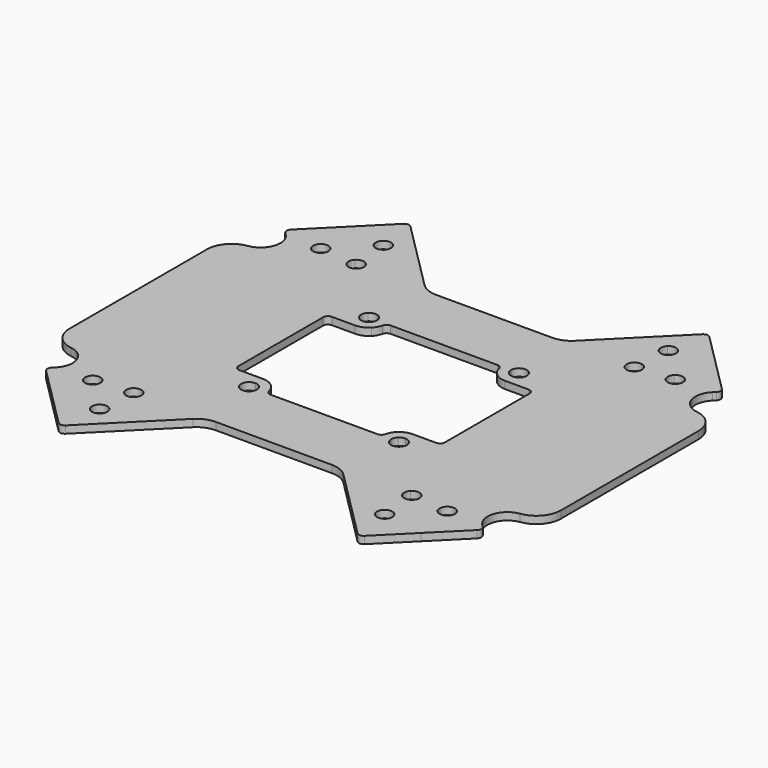
from build123d import *

# Parameters (mm, degrees)
F0_R     = 1.55
F1_DEPTH = 1.5


with BuildPart() as f1:
    # F0 (on Top) → F1 (new body)
    with BuildSketch(Plane.XY):
        with BuildLine():
            Line((-19.0474562542, -26.5065397223), (-20.5119223638, -27.9710058318))
            Line((-20.5119223638, -27.9710058318), (-20.5119223638, -30.0420736437))
            ThreePointArc((-20.5119223638, -30.0420736437), (-20.1313200221, -28.1286564717), (-19.0474562542, -26.5065397223))
        make_face()
        with BuildLine():
            Line((-60.2987189282, -69.8288702081), (-62.36978674, -69.8288702081))
            Line((-62.36978674, -69.8288702081), (-63.8342528299, -71.293336298))
            ThreePointArc((-63.8342528299, -71.293336298), (-62.2121360872, -70.2094725444), (-60.2987189282, -69.8288702081))
        make_face()
        Polygon((-69.5119223638, -34.9710058318), (-76.5119223638, -27.9710058318), (-76.5119223638, -30.0420736437), (-76.5119223638, -53.6156667725), (-76.5119223638, -55.6867345844), (-69.5119223638, -48.6867345844), align=None)
        with BuildLine():
            Line((-76.5119223638, -27.9710058318), (-77.9763884163, -26.5065397793))
            ThreePointArc((-77.9763884163, -26.5065397793), (-76.89252469, -28.128656509), (-76.5119223638, -30.0420736437))
            Line((-76.5119223638, -30.0420736437), (-76.5119223638, -27.9710058318))
        make_face()
        Polygon((-27.5119223638, -34.9710058318), (-27.5119223638, -48.6867345844), (-20.5119223638, -55.6867345844), (-20.5119223638, -53.6156667725), (-20.5119223638, -30.0420736437), (-20.5119223638, -27.9710058318), align=None)
        with BuildLine():
            Line((-20.5119223638, -53.6156667725), (-20.5119223638, -55.6867345844))
            Line((-20.5119223638, -55.6867345844), (-19.0474562542, -57.151200694))
            ThreePointArc((-19.0474562542, -57.151200694), (-20.1313200221, -55.5290839445), (-20.5119223638, -53.6156667725))
        make_face()
        Polygon((-60.2987189282, -13.8288702081), (-62.36978674, -13.8288702081), (-49.61978674, -26.5788702081), (-47.4040579875, -26.5788702081), (-34.6540579875, -13.8288702081), (-36.7251257993, -13.8288702081), align=None)
        Polygon((-34.6540579875, -69.8288702081), (-47.4040579875, -57.0788702081), (-49.61978674, -57.0788702081), (-62.36978674, -69.8288702081), (-60.2987189282, -69.8288702081), (-36.7251257993, -69.8288702081), align=None)
        with BuildLine():
            Line((-33.1895918563, -71.2933363393), (-34.6540579875, -69.8288702081))
            Line((-34.6540579875, -69.8288702081), (-36.7251257993, -69.8288702081))
            ThreePointArc((-36.7251257993, -69.8288702081), (-34.8117086133, -70.2094725556), (-33.1895918563, -71.2933363393))
        make_face()
        with BuildLine():
            Line((-77.8922091221, -12.4485834498), (-81.0388342983, -9.3019582735))
            Line((-81.0388342983, -9.3019582735), (-83.4783526934, -11.7414766686))
            ThreePointArc((-83.4783526934, -11.7414766686), (-83.1423549289, -12.2443328593), (-83.0243682043, -12.8374921795))
            ThreePointArc((-83.0243682043, -12.8374921795), (-83.9812088841, -14.2695054549), (-85.6703837151, -13.9335076903))
            Line((-85.6703837151, -13.9335076903), (-88.1099021102, -16.3730260854))
            Line((-88.1099021102, -16.3730260854), (-85.1540579875, -19.3288702081))
            Line((-85.1540579875, -19.3288702081), (-80.3317275171, -24.1512006785))
            Line((-80.3317275171, -24.1512006785), (-73.2606597053, -17.0801328666))
            Line((-73.2606597053, -17.0801328666), (-75.7001781004, -14.6406144715))
            ThreePointArc((-75.7001781004, -14.6406144715), (-77.8922091221, -14.6406144715), (-77.8922091221, -12.4485834498))
        make_face()
        with BuildLine():
            Line((-81.0388342983, -9.3019582735), (-85.9885817666, -4.3522108052))
            Line((-85.9885817666, -4.3522108052), (-92.3525427973, -10.7161718359))
            ThreePointArc((-92.3525427973, -10.7161718359), (-92.6454360161, -11.4232786171), (-92.3525427973, -12.1303853983))
            Line((-92.3525427973, -12.1303853983), (-91.8999033924, -12.5830248032))
            Line((-91.8999033924, -12.5830248032), (-88.1099021102, -16.3730260854))
            Line((-88.1099021102, -16.3730260854), (-85.6703837151, -13.9335076903))
            ThreePointArc((-85.6703837151, -13.9335076903), (-85.6703837151, -11.7414766686), (-83.4783526934, -11.7414766686))
            Line((-83.4783526934, -11.7414766686), (-81.0388342983, -9.3019582735))
        make_face()
        with BuildLine():
            Line((-79.624620736, 2.0117502254), (-85.9885817666, -4.3522108052))
            Line((-85.9885817666, -4.3522108052), (-81.0388342983, -9.3019582735))
            Line((-81.0388342983, -9.3019582735), (-78.5993159032, -6.8624398784))
            ThreePointArc((-78.5993159032, -6.8624398784), (-78.5993159032, -4.6704088568), (-76.4072848816, -4.6704088568))
            Line((-76.4072848816, -4.6704088568), (-73.9677664865, -2.2308904617))
            Line((-73.9677664865, -2.2308904617), (-78.2104071736, 2.0117502254))
            ThreePointArc((-78.2104071736, 2.0117502254), (-78.9175139548, 2.3046434443), (-79.624620736, 2.0117502254))
        make_face()
        with BuildLine():
            Line((-78.5993159032, -6.8624398784), (-81.0388342983, -9.3019582735))
            Line((-81.0388342983, -9.3019582735), (-77.8922091221, -12.4485834498))
            ThreePointArc((-77.8922091221, -12.4485834498), (-76.203034291, -12.1125856853), (-75.2461936112, -13.5445989607))
            ThreePointArc((-75.2461936112, -13.5445989607), (-75.3641803358, -14.1377582808), (-75.7001781004, -14.6406144715))
            Line((-75.7001781004, -14.6406144715), (-73.2606597053, -17.0801328666))
            Line((-73.2606597053, -17.0801328666), (-66.1895918934, -10.0090650547))
            Line((-66.1895918934, -10.0090650547), (-73.9677664865, -2.2308904617))
            Line((-73.9677664865, -2.2308904617), (-76.4072848816, -4.6704088568))
            ThreePointArc((-76.4072848816, -4.6704088568), (-76.071287117, -5.1732650474), (-75.9533003924, -5.7664243676))
            ThreePointArc((-75.9533003924, -5.7664243676), (-76.9101410722, -7.198437643), (-78.5993159032, -6.8624398784))
        make_face()
        with BuildLine():
            Line((-66.1895918934, -10.0090650547), (-73.2606597053, -17.0801328666))
            Line((-73.2606597053, -17.0801328666), (-66.2367960979, -24.103996474))
            ThreePointArc((-66.2367960979, -24.103996474), (-62.4225303505, -23.3452918443), (-60.2619223638, -26.5788702081))
            Line((-60.2619223638, -26.5788702081), (-59.3744401701, -26.5788702081))
            Line((-59.3744401701, -26.5788702081), (-49.61978674, -26.5788702081))
            Line((-49.61978674, -26.5788702081), (-62.36978674, -13.8288702081))
            Line((-62.36978674, -13.8288702081), (-63.8342528795, -12.3644040687))
            Line((-63.8342528795, -12.3644040687), (-66.1895918934, -10.0090650547))
        make_face()
        with BuildLine():
            Line((-66.2367960979, -24.103996474), (-73.2606597053, -17.0801328666))
            Line((-73.2606597053, -17.0801328666), (-80.3317275171, -24.1512006785))
            Line((-80.3317275171, -24.1512006785), (-77.9763884163, -26.5065397793))
            Line((-77.9763884163, -26.5065397793), (-76.5119223638, -27.9710058318))
            Line((-76.5119223638, -27.9710058318), (-69.5119223638, -34.9710058318))
            Line((-69.5119223638, -34.9710058318), (-69.5119223638, -31.0788702081))
            ThreePointArc((-69.5119223638, -31.0788702081), (-69.2190291449, -30.3717634269), (-68.5119223638, -30.0788702081))
            Line((-68.5119223638, -30.0788702081), (-63.7619223638, -30.0788702081))
            ThreePointArc((-63.7619223638, -30.0788702081), (-66.9955007275, -27.9182622214), (-66.2367960979, -24.103996474))
        make_face()
        with BuildLine():
            Line((-23.056078241, -2.2308904617), (-30.1271460529, -9.3019582735))
            ThreePointArc((-30.1271460529, -9.3019582735), (-30.4200392717, -10.0090650547), (-30.1271460529, -10.7161718359))
            Line((-30.1271460529, -10.7161718359), (-23.7631850222, -17.0801328666))
            Line((-23.7631850222, -17.0801328666), (-21.3236666271, -14.6406144715))
            ThreePointArc((-21.3236666271, -14.6406144715), (-21.3236666271, -12.4485834498), (-19.1316356054, -12.4485834498))
            Line((-19.1316356054, -12.4485834498), (-15.9850104292, -9.3019582735))
            Line((-15.9850104292, -9.3019582735), (-18.4245288243, -6.8624398784))
            ThreePointArc((-18.4245288243, -6.8624398784), (-20.6165598459, -6.8624398784), (-20.6165598459, -4.6704088568))
            Line((-20.6165598459, -4.6704088568), (-23.056078241, -2.2308904617))
        make_face()
        with BuildLine():
            Line((-18.8134375539, 2.0117502254), (-23.056078241, -2.2308904617))
            Line((-23.056078241, -2.2308904617), (-20.6165598459, -4.6704088568))
            ThreePointArc((-20.6165598459, -4.6704088568), (-18.9273850149, -4.3344110922), (-17.9705443351, -5.7664243676))
            ThreePointArc((-17.9705443351, -5.7664243676), (-18.0885310597, -6.3595836878), (-18.4245288243, -6.8624398784))
            Line((-18.4245288243, -6.8624398784), (-15.9850104292, -9.3019582735))
            Line((-15.9850104292, -9.3019582735), (-11.0352629609, -4.3522108052))
            Line((-11.0352629609, -4.3522108052), (-17.3992239915, 2.0117502254))
            ThreePointArc((-17.3992239915, 2.0117502254), (-18.1063307727, 2.3046434443), (-18.8134375539, 2.0117502254))
        make_face()
        with BuildLine():
            Line((-4.6713019302, -10.7161718359), (-11.0352629609, -4.3522108052))
            Line((-11.0352629609, -4.3522108052), (-15.9850104292, -9.3019582735))
            Line((-15.9850104292, -9.3019582735), (-13.5454920341, -11.7414766686))
            ThreePointArc((-13.5454920341, -11.7414766686), (-11.8563172031, -11.4054789041), (-10.8994765232, -12.8374921795))
            ThreePointArc((-10.8994765232, -12.8374921795), (-11.0174632478, -13.4306514996), (-11.3534610124, -13.9335076903))
            Line((-11.3534610124, -13.9335076903), (-8.9139426173, -16.3730260854))
            Line((-8.9139426173, -16.3730260854), (-5.1239411807, -12.5830246488))
            Line((-5.1239411807, -12.5830246488), (-4.6713019302, -12.1303853983))
            ThreePointArc((-4.6713019302, -12.1303853983), (-4.3784087114, -11.4232786171), (-4.6713019302, -10.7161718359))
        make_face()
        with BuildLine():
            Line((-21.3236666271, -14.6406144715), (-23.7631850222, -17.0801328666))
            Line((-23.7631850222, -17.0801328666), (-17.3992239915, -23.4440938973))
            ThreePointArc((-17.3992239915, -23.4440938973), (-16.6921172104, -23.7369871161), (-15.9850104292, -23.4440938973))
            Line((-15.9850104292, -23.4440938973), (-11.86978674, -19.3288702081))
            Line((-11.86978674, -19.3288702081), (-8.9139426173, -16.3730260854))
            Line((-8.9139426173, -16.3730260854), (-11.3534610124, -13.9335076903))
            ThreePointArc((-11.3534610124, -13.9335076903), (-13.5454920341, -13.9335076903), (-13.5454920341, -11.7414766686))
            Line((-13.5454920341, -11.7414766686), (-15.9850104292, -9.3019582735))
            Line((-15.9850104292, -9.3019582735), (-19.1316356054, -12.4485834498))
            ThreePointArc((-19.1316356054, -12.4485834498), (-18.7956378409, -12.9514396405), (-18.6776511163, -13.5445989607))
            ThreePointArc((-18.6776511163, -13.5445989607), (-19.6344917961, -14.976612236), (-21.3236666271, -14.6406144715))
        make_face()
        with BuildLine():
            Line((-34.6540579875, -13.8288702081), (-47.4040579875, -26.5788702081))
            Line((-47.4040579875, -26.5788702081), (-37.6494045574, -26.5788702081))
            Line((-37.6494045574, -26.5788702081), (-36.7619223638, -26.5788702081))
            ThreePointArc((-36.7619223638, -26.5788702081), (-34.601314377, -23.3452918443), (-30.7870486296, -24.103996474))
            Line((-30.7870486296, -24.103996474), (-23.7631850222, -17.0801328666))
            Line((-23.7631850222, -17.0801328666), (-30.1271460529, -10.7161718359))
            ThreePointArc((-30.1271460529, -10.7161718359), (-30.4200392717, -10.0090650547), (-30.1271460529, -9.3019582735))
            Line((-30.1271460529, -9.3019582735), (-33.1895918965, -12.3644041171))
            Line((-33.1895918965, -12.3644041171), (-34.6540579875, -13.8288702081))
        make_face()
        with BuildLine():
            ThreePointArc((-29.7619223638, -26.5788702081), (-30.7870486296, -29.0537439423), (-33.2619223638, -30.0788702081))
            Line((-33.2619223638, -30.0788702081), (-28.5119223638, -30.0788702081))
            ThreePointArc((-28.5119223638, -30.0788702081), (-27.8048155826, -30.3717634269), (-27.5119223638, -31.0788702081))
            Line((-27.5119223638, -31.0788702081), (-27.5119223638, -34.9710058318))
            Line((-27.5119223638, -34.9710058318), (-20.5119223638, -27.9710058318))
            Line((-20.5119223638, -27.9710058318), (-19.0474562542, -26.5065397223))
            Line((-19.0474562542, -26.5065397223), (-15.9850104292, -23.4440938973))
            ThreePointArc((-15.9850104292, -23.4440938973), (-16.6921172104, -23.7369871161), (-17.3992239915, -23.4440938973))
            Line((-17.3992239915, -23.4440938973), (-23.7631850222, -17.0801328666))
            Line((-23.7631850222, -17.0801328666), (-30.7870486296, -24.103996474))
            ThreePointArc((-30.7870486296, -24.103996474), (-30.028344, -25.2394781948), (-29.7619223638, -26.5788702081))
        make_face()
        with BuildLine():
            Line((-28.5119223638, -53.5788702081), (-33.2619223638, -53.5788702081))
            ThreePointArc((-33.2619223638, -53.5788702081), (-30.7870486296, -54.603996474), (-29.7619223638, -57.0788702081))
            ThreePointArc((-29.7619223638, -57.0788702081), (-30.028344, -58.4182622214), (-30.7870486296, -59.5537439423))
            Line((-30.7870486296, -59.5537439423), (-21.3236666271, -69.0171259447))
            ThreePointArc((-21.3236666271, -69.0171259447), (-19.6344917961, -68.6811281802), (-18.6776511163, -70.1131414556))
            ThreePointArc((-18.6776511163, -70.1131414556), (-18.7956378409, -70.7063007757), (-19.1316356054, -71.2091569664))
            Line((-19.1316356054, -71.2091569664), (-11.0352629609, -79.305529611))
            Line((-11.0352629609, -79.305529611), (-4.6713019302, -72.9415685803))
            ThreePointArc((-4.6713019302, -72.9415685803), (-4.3784087114, -72.2344617991), (-4.6713019302, -71.527355018))
            Line((-4.6713019302, -71.527355018), (-5.1239412305, -71.0747157176))
            Line((-5.1239412305, -71.0747157176), (-11.86978674, -64.3288702081))
            Line((-11.86978674, -64.3288702081), (-19.0474562542, -57.151200694))
            Line((-19.0474562542, -57.151200694), (-20.5119223638, -55.6867345844))
            Line((-20.5119223638, -55.6867345844), (-27.5119223638, -48.6867345844))
            Line((-27.5119223638, -48.6867345844), (-27.5119223638, -52.5788702081))
            ThreePointArc((-27.5119223638, -52.5788702081), (-27.8048155826, -53.2859769893), (-28.5119223638, -53.5788702081))
        make_face()
        with Locations((-12.4494765232, -70.8202482368)):
            Circle(F0_R, mode=Mode.SUBTRACT)
        with BuildLine():
            Line((-37.6494045574, -57.0788702081), (-47.4040579875, -57.0788702081))
            Line((-47.4040579875, -57.0788702081), (-34.6540579875, -69.8288702081))
            Line((-34.6540579875, -69.8288702081), (-33.1895918563, -71.2933363393))
            Line((-33.1895918563, -71.2933363393), (-18.8134375539, -85.6694906417))
            ThreePointArc((-18.8134375539, -85.6694906417), (-18.1063307727, -85.9623838605), (-17.3992239915, -85.6694906417))
            Line((-17.3992239915, -85.6694906417), (-11.0352629609, -79.305529611))
            Line((-11.0352629609, -79.305529611), (-19.1316356054, -71.2091569664))
            ThreePointArc((-19.1316356054, -71.2091569664), (-21.3236666271, -71.2091569664), (-21.3236666271, -69.0171259447))
            Line((-21.3236666271, -69.0171259447), (-30.7870486296, -59.5537439423))
            ThreePointArc((-30.7870486296, -59.5537439423), (-34.601314377, -60.3124485719), (-36.7619223638, -57.0788702081))
            Line((-36.7619223638, -57.0788702081), (-37.6494045574, -57.0788702081))
        make_face()
        with Locations((-19.5205443351, -77.8913160486)):
            Circle(F0_R, mode=Mode.SUBTRACT)
        with BuildLine():
            ThreePointArc((-60.2619223638, -57.0788702081), (-62.4225303505, -60.3124485719), (-66.2367960979, -59.5537439423))
            Line((-66.2367960979, -59.5537439423), (-75.7001781004, -69.0171259447))
            ThreePointArc((-75.7001781004, -69.0171259447), (-75.3641803358, -69.5199821354), (-75.2461936112, -70.1131414556))
            ThreePointArc((-75.2461936112, -70.1131414556), (-76.203034291, -71.545154731), (-77.8922091221, -71.2091569664))
            Line((-77.8922091221, -71.2091569664), (-85.9885817666, -79.305529611))
            Line((-85.9885817666, -79.305529611), (-79.624620736, -85.6694906417))
            ThreePointArc((-79.624620736, -85.6694906417), (-78.9175139548, -85.9623838605), (-78.2104071736, -85.6694906417))
            Line((-78.2104071736, -85.6694906417), (-63.8342528299, -71.293336298))
            Line((-63.8342528299, -71.293336298), (-62.36978674, -69.8288702081))
            Line((-62.36978674, -69.8288702081), (-49.61978674, -57.0788702081))
            Line((-49.61978674, -57.0788702081), (-59.3744401701, -57.0788702081))
            Line((-59.3744401701, -57.0788702081), (-60.2619223638, -57.0788702081))
        make_face()
        with Locations((-77.5033003924, -77.8913160486)):
            Circle(F0_R, mode=Mode.SUBTRACT)
        with BuildLine():
            Line((-85.1540579875, -64.3288702081), (-91.8999035563, -71.0747157769))
            Line((-91.8999035563, -71.0747157769), (-92.3525427973, -71.527355018))
            ThreePointArc((-92.3525427973, -71.527355018), (-92.6454360161, -72.2344617991), (-92.3525427973, -72.9415685803))
            Line((-92.3525427973, -72.9415685803), (-85.9885817666, -79.305529611))
            Line((-85.9885817666, -79.305529611), (-77.8922091221, -71.2091569664))
            ThreePointArc((-77.8922091221, -71.2091569664), (-77.8922091221, -69.0171259447), (-75.7001781004, -69.0171259447))
            Line((-75.7001781004, -69.0171259447), (-66.2367960979, -59.5537439423))
            ThreePointArc((-66.2367960979, -59.5537439423), (-66.9955007275, -55.7394781948), (-63.7619223638, -53.5788702081))
            Line((-63.7619223638, -53.5788702081), (-68.5119223638, -53.5788702081))
            ThreePointArc((-68.5119223638, -53.5788702081), (-69.2190291449, -53.2859769893), (-69.5119223638, -52.5788702081))
            Line((-69.5119223638, -52.5788702081), (-69.5119223638, -48.6867345844))
            Line((-69.5119223638, -48.6867345844), (-76.5119223638, -55.6867345844))
            Line((-76.5119223638, -55.6867345844), (-77.9763884733, -57.151200694))
            Line((-77.9763884733, -57.151200694), (-85.1540579875, -64.3288702081))
        make_face()
        with Locations((-84.5743682043, -70.8202482368)):
            Circle(F0_R, mode=Mode.SUBTRACT)
        with BuildLine():
            Line((-64.8932932136, -25.4474993582), (-66.2367960979, -24.103996474))
            ThreePointArc((-66.2367960979, -24.103996474), (-66.9955007275, -27.9182622214), (-63.7619223638, -30.0788702081))
            Line((-63.7619223638, -30.0788702081), (-63.7619223638, -28.1788702081))
            ThreePointArc((-63.7619223638, -28.1788702081), (-65.2401296158, -27.1911636999), (-64.8932932136, -25.4474993582))
        make_face()
        with BuildLine():
            ThreePointArc((-60.2619223638, -26.5788702081), (-62.4225303505, -23.3452918443), (-66.2367960979, -24.103996474))
            Line((-66.2367960979, -24.103996474), (-64.8932932136, -25.4474993582))
            ThreePointArc((-64.8932932136, -25.4474993582), (-63.149628872, -25.1006629561), (-62.1619223638, -26.5788702081))
            Line((-62.1619223638, -26.5788702081), (-60.2619223638, -26.5788702081))
        make_face()
        with BuildLine():
            ThreePointArc((-60.3494362065, -27.3566479569), (-60.2838696363, -26.9702130563), (-60.2619223638, -26.5788702081))
            Line((-60.2619223638, -26.5788702081), (-62.1619223638, -26.5788702081))
            ThreePointArc((-62.1619223638, -26.5788702081), (-62.2837151117, -27.1911636999), (-62.6305515139, -27.710241058))
            Line((-62.6305515139, -27.710241058), (-61.2870486296, -29.0537439423))
            ThreePointArc((-61.2870486296, -29.0537439423), (-60.6983810602, -28.2714170114), (-60.3494362065, -27.3566479569))
        make_face()
        with BuildLine():
            Line((-63.7619223638, -28.1788702081), (-63.7619223638, -30.0788702081))
            ThreePointArc((-63.7619223638, -30.0788702081), (-62.4225303505, -29.8124485719), (-61.2870486296, -29.0537439423))
            Line((-61.2870486296, -29.0537439423), (-62.6305515139, -27.710241058))
            ThreePointArc((-62.6305515139, -27.710241058), (-63.149628872, -28.0570774601), (-63.7619223638, -28.1788702081))
        make_face()
        with BuildLine():
            ThreePointArc((-36.674408521, -27.3566479569), (-36.3254636673, -28.2714170114), (-35.7367960979, -29.0537439423))
            Line((-35.7367960979, -29.0537439423), (-34.3932932136, -27.710241058))
            ThreePointArc((-34.3932932136, -27.710241058), (-34.7401296158, -27.1911636999), (-34.8619223638, -26.5788702081))
            Line((-34.8619223638, -26.5788702081), (-36.7619223638, -26.5788702081))
            ThreePointArc((-36.7619223638, -26.5788702081), (-36.7399750912, -26.9702130563), (-36.674408521, -27.3566479569))
        make_face()
        with BuildLine():
            Line((-34.3932932136, -27.710241058), (-35.7367960979, -29.0537439423))
            ThreePointArc((-35.7367960979, -29.0537439423), (-34.601314377, -29.8124485719), (-33.2619223638, -30.0788702081))
            Line((-33.2619223638, -30.0788702081), (-33.2619223638, -28.1788702081))
            ThreePointArc((-33.2619223638, -28.1788702081), (-33.8742158555, -28.0570774601), (-34.3932932136, -27.710241058))
        make_face()
        with BuildLine():
            Line((-33.2619223638, -28.1788702081), (-33.2619223638, -30.0788702081))
            ThreePointArc((-33.2619223638, -30.0788702081), (-30.7870486296, -29.0537439423), (-29.7619223638, -26.5788702081))
            ThreePointArc((-29.7619223638, -26.5788702081), (-30.028344, -25.2394781948), (-30.7870486296, -24.103996474))
            Line((-30.7870486296, -24.103996474), (-32.1305515139, -25.4474993582))
            ThreePointArc((-32.1305515139, -25.4474993582), (-31.7837151117, -25.9665767163), (-31.6619223638, -26.5788702081))
            ThreePointArc((-31.6619223638, -26.5788702081), (-32.1305515139, -27.710241058), (-33.2619223638, -28.1788702081))
        make_face()
        with BuildLine():
            ThreePointArc((-30.7870486296, -24.103996474), (-34.601314377, -23.3452918443), (-36.7619223638, -26.5788702081))
            Line((-36.7619223638, -26.5788702081), (-34.8619223638, -26.5788702081))
            ThreePointArc((-34.8619223638, -26.5788702081), (-33.8742158555, -25.1006629561), (-32.1305515139, -25.4474993582))
            Line((-32.1305515139, -25.4474993582), (-30.7870486296, -24.103996474))
        make_face()
        with BuildLine():
            Line((-34.3932932136, -55.9474993582), (-35.7367960979, -54.603996474))
            ThreePointArc((-35.7367960979, -54.603996474), (-36.3254636673, -55.3863234048), (-36.674408521, -56.3010924594))
            ThreePointArc((-36.674408521, -56.3010924594), (-36.7399750912, -56.68752736), (-36.7619223638, -57.0788702081))
            Line((-36.7619223638, -57.0788702081), (-34.8619223638, -57.0788702081))
            ThreePointArc((-34.8619223638, -57.0788702081), (-34.7401296158, -56.4665767163), (-34.3932932136, -55.9474993582))
        make_face()
        with BuildLine():
            ThreePointArc((-33.2619223638, -53.5788702081), (-34.601314377, -53.8452918443), (-35.7367960979, -54.603996474))
            Line((-35.7367960979, -54.603996474), (-34.3932932136, -55.9474993582))
            ThreePointArc((-34.3932932136, -55.9474993582), (-33.8742158555, -55.6006629561), (-33.2619223638, -55.4788702081))
            Line((-33.2619223638, -55.4788702081), (-33.2619223638, -53.5788702081))
        make_face()
        with BuildLine():
            ThreePointArc((-29.7619223638, -57.0788702081), (-30.7870486296, -54.603996474), (-33.2619223638, -53.5788702081))
            Line((-33.2619223638, -53.5788702081), (-33.2619223638, -55.4788702081))
            ThreePointArc((-33.2619223638, -55.4788702081), (-32.1305515139, -55.9474993582), (-31.6619223638, -57.0788702081))
            ThreePointArc((-31.6619223638, -57.0788702081), (-31.7837151117, -57.6911636999), (-32.1305515139, -58.210241058))
            Line((-32.1305515139, -58.210241058), (-30.7870486296, -59.5537439423))
            ThreePointArc((-30.7870486296, -59.5537439423), (-30.028344, -58.4182622214), (-29.7619223638, -57.0788702081))
        make_face()
        with BuildLine():
            ThreePointArc((-32.1305515139, -58.210241058), (-33.8742158555, -58.5570774601), (-34.8619223638, -57.0788702081))
            Line((-34.8619223638, -57.0788702081), (-36.7619223638, -57.0788702081))
            ThreePointArc((-36.7619223638, -57.0788702081), (-34.601314377, -60.3124485719), (-30.7870486296, -59.5537439423))
            Line((-30.7870486296, -59.5537439423), (-32.1305515139, -58.210241058))
        make_face()
        with BuildLine():
            Line((-64.8932932136, -58.210241058), (-66.2367960979, -59.5537439423))
            ThreePointArc((-66.2367960979, -59.5537439423), (-62.4225303505, -60.3124485719), (-60.2619223638, -57.0788702081))
            Line((-60.2619223638, -57.0788702081), (-62.1619223638, -57.0788702081))
            ThreePointArc((-62.1619223638, -57.0788702081), (-63.149628872, -58.5570774601), (-64.8932932136, -58.210241058))
        make_face()
        with BuildLine():
            Line((-63.7619223638, -55.4788702081), (-63.7619223638, -53.5788702081))
            ThreePointArc((-63.7619223638, -53.5788702081), (-66.9955007275, -55.7394781948), (-66.2367960979, -59.5537439423))
            Line((-66.2367960979, -59.5537439423), (-64.8932932136, -58.210241058))
            ThreePointArc((-64.8932932136, -58.210241058), (-65.2401296158, -56.4665767163), (-63.7619223638, -55.4788702081))
        make_face()
        with BuildLine():
            ThreePointArc((-61.2870486296, -54.603996474), (-62.4225303505, -53.8452918443), (-63.7619223638, -53.5788702081))
            Line((-63.7619223638, -53.5788702081), (-63.7619223638, -55.4788702081))
            ThreePointArc((-63.7619223638, -55.4788702081), (-63.149628872, -55.6006629561), (-62.6305515139, -55.9474993582))
            Line((-62.6305515139, -55.9474993582), (-61.2870486296, -54.603996474))
        make_face()
        with BuildLine():
            ThreePointArc((-60.3494362065, -56.3010924594), (-60.6983810602, -55.3863234048), (-61.2870486296, -54.603996474))
            Line((-61.2870486296, -54.603996474), (-62.6305515139, -55.9474993582))
            ThreePointArc((-62.6305515139, -55.9474993582), (-62.2837151117, -56.4665767163), (-62.1619223638, -57.0788702081))
            Line((-62.1619223638, -57.0788702081), (-60.2619223638, -57.0788702081))
            ThreePointArc((-60.2619223638, -57.0788702081), (-60.2838696363, -56.68752736), (-60.3494362065, -56.3010924594))
        make_face()
        with BuildLine():
            Line((-19.0474562542, -26.5065397223), (-20.5119223638, -27.9710058318))
            Line((-20.5119223638, -27.9710058318), (-20.5119223638, -30.0420736437))
            ThreePointArc((-20.5119223638, -30.0420736437), (-20.1313200221, -28.1286564717), (-19.0474562542, -26.5065397223))
        make_face()
        with BuildLine():
            Line((-76.5119223638, -55.6867345844), (-76.5119223638, -53.6156667725))
            ThreePointArc((-76.5119223638, -53.6156667725), (-76.8925247054, -55.5290839445), (-77.9763884733, -57.151200694))
            Line((-77.9763884733, -57.151200694), (-76.5119223638, -55.6867345844))
        make_face()
        with BuildLine():
            Line((-60.2987189282, -69.8288702081), (-62.36978674, -69.8288702081))
            Line((-62.36978674, -69.8288702081), (-63.8342528299, -71.293336298))
            ThreePointArc((-63.8342528299, -71.293336298), (-62.2121360872, -70.2094725444), (-60.2987189282, -69.8288702081))
        make_face()
        with BuildLine():
            Line((-59.3744401701, -26.5788702081), (-60.2619223638, -26.5788702081))
            ThreePointArc((-60.2619223638, -26.5788702081), (-60.2838696363, -26.9702130563), (-60.3494362065, -27.3566479569))
            ThreePointArc((-60.3494362065, -27.3566479569), (-59.9980497229, -26.7971342389), (-59.3744401701, -26.5788702081))
        make_face()
        with BuildLine():
            Line((-36.7619223638, -26.5788702081), (-37.6494045574, -26.5788702081))
            ThreePointArc((-37.6494045574, -26.5788702081), (-37.0257950046, -26.7971342389), (-36.674408521, -27.3566479569))
            ThreePointArc((-36.674408521, -27.3566479569), (-36.7399750912, -26.9702130563), (-36.7619223638, -26.5788702081))
        make_face()
        with BuildLine():
            ThreePointArc((-36.7619223638, -57.0788702081), (-36.7399750912, -56.68752736), (-36.674408521, -56.3010924594))
            ThreePointArc((-36.674408521, -56.3010924594), (-37.0257950046, -56.8606061774), (-37.6494045574, -57.0788702081))
            Line((-37.6494045574, -57.0788702081), (-36.7619223638, -57.0788702081))
        make_face()
        with BuildLine():
            ThreePointArc((-59.3744401701, -57.0788702081), (-59.9980497229, -56.8606061774), (-60.3494362065, -56.3010924594))
            ThreePointArc((-60.3494362065, -56.3010924594), (-60.2838696363, -56.68752736), (-60.2619223638, -57.0788702081))
            Line((-60.2619223638, -57.0788702081), (-59.3744401701, -57.0788702081))
        make_face()
        with BuildLine():
            Line((-88.1099021102, -16.3730260854), (-91.8999033924, -12.5830248032))
            ThreePointArc((-91.8999033924, -12.5830248032), (-91.0328124742, -13.8807181571), (-90.7283306366, -15.4114518085))
            ThreePointArc((-90.7283306366, -15.4114518085), (-91.7148191046, -18.0418031628), (-94.18770476, -19.3747488781))
            ThreePointArc((-94.18770476, -19.3747488781), (-93.8505913391, -19.3403530612), (-93.5119223638, -19.3288702081))
            Line((-93.5119223638, -19.3288702081), (-85.1540579875, -19.3288702081))
            Line((-85.1540579875, -19.3288702081), (-88.1099021102, -16.3730260854))
        make_face()
        with BuildLine():
            ThreePointArc((-93.5119223638, -19.3288702081), (-93.8505913391, -19.3403530612), (-94.18770476, -19.3747488781))
            ThreePointArc((-94.18770476, -19.3747488781), (-97.2788117954, -21.0409310345), (-98.5119223638, -24.3288702081))
            Line((-98.5119223638, -24.3288702081), (-98.5119223638, -59.3288702081))
            ThreePointArc((-98.5119223638, -59.3288702081), (-97.2788117704, -62.6168094105), (-94.1877046844, -64.2829915485))
            ThreePointArc((-94.1877046844, -64.2829915485), (-93.850591301, -64.3173873576), (-93.5119223638, -64.3288702081))
            Line((-93.5119223638, -64.3288702081), (-85.1540579875, -64.3288702081))
            Line((-85.1540579875, -64.3288702081), (-77.9763884733, -57.151200694))
            ThreePointArc((-77.9763884733, -57.151200694), (-86.1313200221, -51.7022496005), (-76.5119223638, -53.6156667725))
            Line((-76.5119223638, -53.6156667725), (-76.5119223638, -30.0420736437))
            ThreePointArc((-76.5119223638, -30.0420736437), (-86.1313200375, -31.9554907784), (-77.9763884163, -26.5065397793))
            Line((-77.9763884163, -26.5065397793), (-80.3317275171, -24.1512006785))
            Line((-80.3317275171, -24.1512006785), (-85.1540579875, -19.3288702081))
            Line((-85.1540579875, -19.3288702081), (-93.5119223638, -19.3288702081))
        make_face()
        with BuildLine():
            ThreePointArc((-77.9763884733, -57.151200694), (-76.8925247054, -55.5290839445), (-76.5119223638, -53.6156667725))
            ThreePointArc((-76.5119223638, -53.6156667725), (-86.1313200221, -51.7022496005), (-77.9763884733, -57.151200694))
        make_face()
        with BuildLine():
            ThreePointArc((-76.5119223638, -30.0420736437), (-76.89252469, -28.128656509), (-77.9763884163, -26.5065397793))
            ThreePointArc((-77.9763884163, -26.5065397793), (-86.1313200375, -31.9554907784), (-76.5119223638, -30.0420736437))
        make_face()
        with BuildLine():
            Line((-11.86978674, -19.3288702081), (-15.9850104292, -23.4440938973))
            Line((-15.9850104292, -23.4440938973), (-19.0474562542, -26.5065397223))
            ThreePointArc((-19.0474562542, -26.5065397223), (-13.5985051918, -25.4226759854), (-10.5119223638, -30.0420736437))
            ThreePointArc((-10.5119223638, -30.0420736437), (-15.5119223638, -35.0420736437), (-20.5119223638, -30.0420736437))
            Line((-20.5119223638, -30.0420736437), (-20.5119223638, -53.6156667725))
            ThreePointArc((-20.5119223638, -53.6156667725), (-15.5119223638, -48.6156667725), (-10.5119223638, -53.6156667725))
            ThreePointArc((-10.5119223638, -53.6156667725), (-13.5985051918, -58.2350644309), (-19.0474562542, -57.151200694))
            Line((-19.0474562542, -57.151200694), (-11.86978674, -64.3288702081))
            Line((-11.86978674, -64.3288702081), (-3.5119223638, -64.3288702081))
            ThreePointArc((-3.5119223638, -64.3288702081), (-3.1732531656, -64.3173873399), (-2.836139525, -64.2829914778))
            ThreePointArc((-2.836139525, -64.2829914778), (0.2549672148, -62.6168092135), (1.4880776362, -59.3288702081))
            Line((1.4880776362, -59.3288702081), (1.4880776362, -24.3288702081))
            ThreePointArc((1.4880776362, -24.3288702081), (0.2549670516, -21.0409310158), (-2.8361400168, -19.3747488713))
            ThreePointArc((-2.8361400168, -19.3747488713), (-3.1732534132, -19.3403530595), (-3.5119223638, -19.3288702081))
            Line((-3.5119223638, -19.3288702081), (-11.86978674, -19.3288702081))
        make_face()
        with BuildLine():
            ThreePointArc((-19.0474562542, -26.5065397223), (-20.1313200221, -28.1286564717), (-20.5119223638, -30.0420736437))
            ThreePointArc((-20.5119223638, -30.0420736437), (-15.5119223638, -35.0420736437), (-10.5119223638, -30.0420736437))
            ThreePointArc((-10.5119223638, -30.0420736437), (-13.5985051918, -25.4226759854), (-19.0474562542, -26.5065397223))
        make_face()
        with BuildLine():
            ThreePointArc((-20.5119223638, -53.6156667725), (-20.1313200221, -55.5290839445), (-19.0474562542, -57.151200694))
            ThreePointArc((-19.0474562542, -57.151200694), (-13.5985051918, -58.2350644309), (-10.5119223638, -53.6156667725))
            ThreePointArc((-10.5119223638, -53.6156667725), (-15.5119223638, -48.6156667725), (-20.5119223638, -53.6156667725))
        make_face()
        with BuildLine():
            ThreePointArc((-93.5119223638, -64.3288702081), (-93.850591301, -64.3173873576), (-94.1877046844, -64.2829915485))
            ThreePointArc((-94.1877046844, -64.2829915485), (-91.7148190796, -65.6159372822), (-90.7283306366, -68.2462886077))
            ThreePointArc((-90.7283306366, -68.2462886077), (-91.0328125186, -69.7770223662), (-91.8999035563, -71.0747157769))
            Line((-91.8999035563, -71.0747157769), (-85.1540579875, -64.3288702081))
            Line((-85.1540579875, -64.3288702081), (-93.5119223638, -64.3288702081))
        make_face()
        with BuildLine():
            Line((-3.5119223638, -64.3288702081), (-11.86978674, -64.3288702081))
            Line((-11.86978674, -64.3288702081), (-5.1239412305, -71.0747157176))
            ThreePointArc((-5.1239412305, -71.0747157176), (-6.0862275262, -66.9693815431), (-2.836139525, -64.2829914778))
            ThreePointArc((-2.836139525, -64.2829914778), (-3.1732531656, -64.3173873399), (-3.5119223638, -64.3288702081))
        make_face()
        with BuildLine():
            Line((-8.9139426173, -16.3730260854), (-11.86978674, -19.3288702081))
            Line((-11.86978674, -19.3288702081), (-3.5119223638, -19.3288702081))
            ThreePointArc((-3.5119223638, -19.3288702081), (-3.1732534132, -19.3403530595), (-2.8361400168, -19.3747488713))
            ThreePointArc((-2.8361400168, -19.3747488713), (-6.0862276167, -16.6883586045), (-5.1239411807, -12.5830246488))
            Line((-5.1239411807, -12.5830246488), (-8.9139426173, -16.3730260854))
        make_face()
        with BuildLine():
            ThreePointArc((-60.2987189282, -13.8288702081), (-62.2121361196, -13.4482678584), (-63.8342528795, -12.3644040687))
            Line((-63.8342528795, -12.3644040687), (-62.36978674, -13.8288702081))
            Line((-62.36978674, -13.8288702081), (-60.2987189282, -13.8288702081))
        make_face()
        with BuildLine():
            ThreePointArc((-33.1895918965, -12.3644041171), (-34.8117086395, -13.4482678715), (-36.7251257993, -13.8288702081))
            Line((-36.7251257993, -13.8288702081), (-34.6540579875, -13.8288702081))
            Line((-34.6540579875, -13.8288702081), (-33.1895918965, -12.3644041171))
        make_face()
    extrude(amount=-F1_DEPTH)


solid = f1.part
